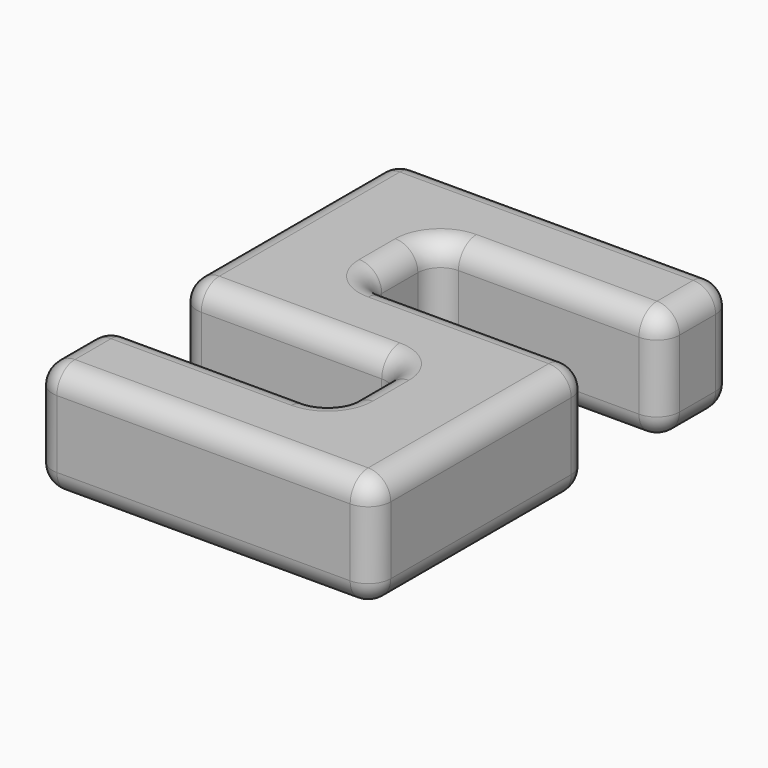
from build123d import *

# Parameters (mm, degrees)
F1_DEPTH = 10
F2_R     = 2


with BuildPart() as f1:
    # F0 (on Top) → F1 (new body)
    with BuildSketch(Plane.XY):
        Polygon((-30, 8), (-30, 0), (0, 0), (0, 24), (-20, 24), (-20, 32), (0, 32), (0, 40), (-30, 40), (-30, 16), (-10, 16), (-10, 8), align=None)
    extrude(amount=F1_DEPTH)

    # F2
    f2_edges = [f1.edges().sort_by_distance(p)[0] for p in [
        (-30, 4, 10),
        (-15, 0, 10),
        (0, 12, 10),
        (-10, 24, 10),
        (-20, 28, 10),
        (-10, 32, 10),
        (0, 36, 10),
        (-15, 40, 10),
        (-30, 28, 10),
        (-20, 16, 10),
        (-10, 12, 10),
        (-20, 8, 10),
        (-30, 40, 5),
        (-30, 16, 5),
        (-30, 28, 0),
        (-10, 16, 5),
        (-10, 8, 5),
        (-10, 12, 0),
        (-30, 8, 5),
        (-30, 0, 5),
        (-30, 4, 0),
        (-15, 0, 0),
        (0, 12, 0),
        (-10, 24, 0),
        (-20, 28, 0),
        (-10, 32, 0),
        (0, 36, 0),
        (-15, 40, 0),
        (-20, 16, 0),
        (-20, 8, 0),
        (0, 40, 5),
        (0, 0, 5),
        (0, 24, 5),
        (-20, 24, 5),
        (-20, 32, 5),
        (0, 32, 5),
    ]]
    fillet(f2_edges, radius=F2_R)


solid = f1.part
